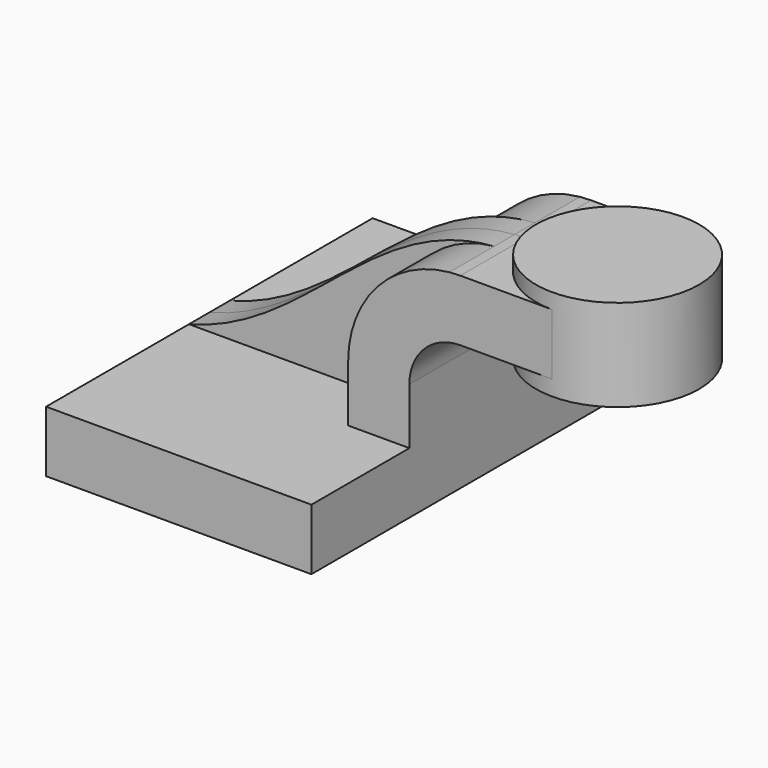
from build123d import *

# Parameters (mm, degrees)
F1_DEPTH = 63.5
F2_DEPTH = 7.9375
F0_W     = 25.4
F0_H     = 19.05
F3_DEPTH = 25.4


with BuildPart() as f1:
    # F0 (on Front) → F1 (new body, symmetric)
    with BuildSketch(Plane.XZ):
        Polygon((-41.275, 9.525), (-41.275, -9.525), (41.275, -9.525), (41.275, 9.525), (22.225, 9.525), align=None)
    extrude(amount=F1_DEPTH, both=True)

    # F0 (on Front) → F2 (join, symmetric)
    with BuildSketch(Plane.XZ):
        with BuildLine():
            add(Edge.make_bspline(
                [(-41.275, 9.525), (-4.041549, 19.120571), (15.072903, 58.732133), (53.711712, 61.755542)],
                knots=[0, 0, 0, 0, 108.338644, 108.338644, 108.338644, 108.338644], degree=3))
            Line((-41.275, 9.525), (22.225, 9.525))
            Line((22.225, 9.525), (22.225, 27.0002))
            ThreePointArc((22.225, 27.0002), (31.267208, 50.448797), (53.711712, 61.755542))
        make_face()
    extrude(amount=F2_DEPTH, both=True)

    # F0 (on Front) → F3 (join, symmetric)
    with BuildSketch(Plane.XZ):
        with BuildLine():
            Line((22.225, 9.525), (41.275, 9.525))
            Line((41.275, 9.525), (41.275, 27.0002))
            ThreePointArc((41.275, 27.0002), (45.92468, 38.22552), (57.15, 42.8752))
            Line((57.15, 42.8752), (60.325, 42.8752))
            Line((60.325, 42.8752), (60.325, 61.9252))
            Line((60.325, 61.9252), (57.15, 61.9252))
            add(Edge.make_bspline(
                [(53.711712, 61.755542), (54.840822, 61.843893), (55.986605, 61.900999), (57.15, 61.9252)],
                knots=[108.338644, 108.338644, 108.338644, 108.338644, 111.504536, 111.504536, 111.504536, 111.504536], degree=3))
            ThreePointArc((53.711712, 61.755542), (31.267208, 50.448797), (22.225, 27.0002))
            Line((22.225, 27.0002), (22.225, 9.525))
        make_face()
        with Locations((73.025, 52.4002)):
            Rectangle(F0_W, F0_H)
    extrude(amount=F3_DEPTH, both=True)

    # F0 (on Front) → F4 (revolve)
    with BuildSketch(Plane.XZ):
        Polygon((85.725, 66.675), (85.725, 61.9252), (85.725, 42.8752), (85.725, 38.1), (111.125, 38.1), (111.125, 66.675), align=None)
    revolve(axis=Axis((85.725, 0, 52.4002), (0, 0, -1)))


solid = f1.part
